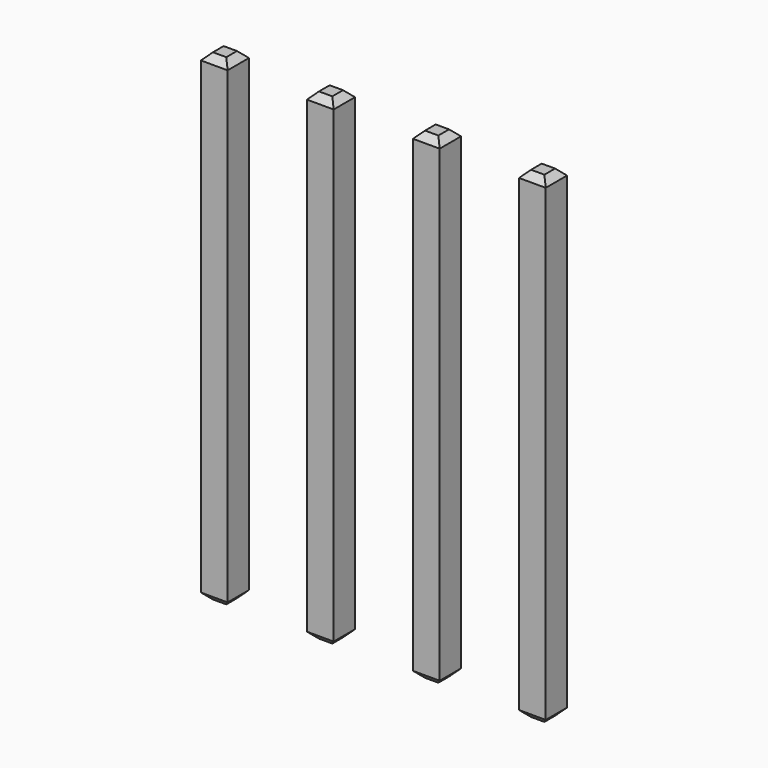
from build123d import *

# Parameters (mm, degrees)
SKETCH219_W       = 0.64
SKETCH219_H       = 11.54
PAD073_DEPTH      = 0.32
PAD073_DEPTH_BACK = 0.32
CHAMFER030_SIZE   = 0.16
ARRAY006_X_COUNT  = 4
ARRAY006_X_PITCH  = 2.54


with BuildPart() as part:
    # Sketch219 → Pad073 (new body, two sides)
    with BuildSketch(Plane.XZ) as pad073_sk:
        with Locations((0, 2.77)):
            Rectangle(SKETCH219_W, SKETCH219_H)
    extrude(amount=PAD073_DEPTH)
    extrude(pad073_sk.sketch, amount=-PAD073_DEPTH_BACK)

    # Chamfer030
    chamfer030_edges = [part.edges().sort_by_distance(p)[0] for p in [
        (0.32, 0, 8.54),
        (-0.32, 0, 8.54),
        (0, 0.32, 8.54),
        (0, -0.32, 8.54),
        (-0.32, 0, -3),
        (0.32, 0, -3),
        (0, 0.32, -3),
        (0, -0.32, -3),
    ]]
    chamfer(chamfer030_edges, length=CHAMFER030_SIZE)

    # Array006 X: part ×4


with BuildPart() as part_1:
    add(part.part)
    with Locations(*[(i * ARRAY006_X_PITCH, 0, 0) for i in range(1, ARRAY006_X_COUNT)]):
        add(part.part)


solid = part_1.part
